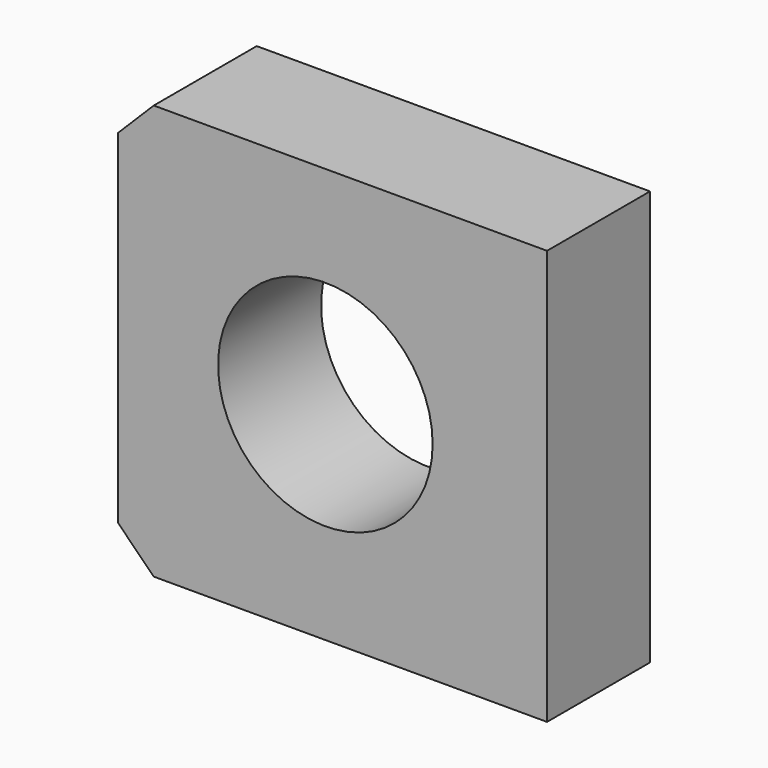
from build123d import *

# Parameters (mm, degrees)
CYLINDER003_R     = 1.5
CYLINDER003_DEPTH = 10
BOX002_W          = 6
BOX002_H          = 1.8
BOX002_DEPTH      = 5.8
CHAMFER001_SIZE   = 0.5


with BuildPart() as cylinder003:
    # Cylinder003 → Cylinder003 (new body)
    with BuildSketch(Plane(origin=(-3, 6, 3), x_dir=(1, 0, 0), z_dir=(0, -1, 0))):
        Circle(CYLINDER003_R)
    extrude(amount=CYLINDER003_DEPTH)


with BuildPart() as chamfer001:
    # Box002 → Box002 (new body)
    with BuildSketch(Plane(origin=(-5.9, 0, 0.1), x_dir=(1, 0, 0), z_dir=(0, 0, 1))):
        with Locations((3, 0.9)):
            Rectangle(BOX002_W, BOX002_H)
    extrude(amount=BOX002_DEPTH)

    # Cut001: cut Cylinder003
    add(cylinder003.part, mode=Mode.SUBTRACT)

    # Chamfer001
    chamfer001_edges = [chamfer001.edges().sort_by_distance(p)[0] for p in [
        (-5.9, 0.9, 5.9),
        (-5.9, 0.9, 0.1),
    ]]
    chamfer(chamfer001_edges, length=CHAMFER001_SIZE)


solid = chamfer001.part
